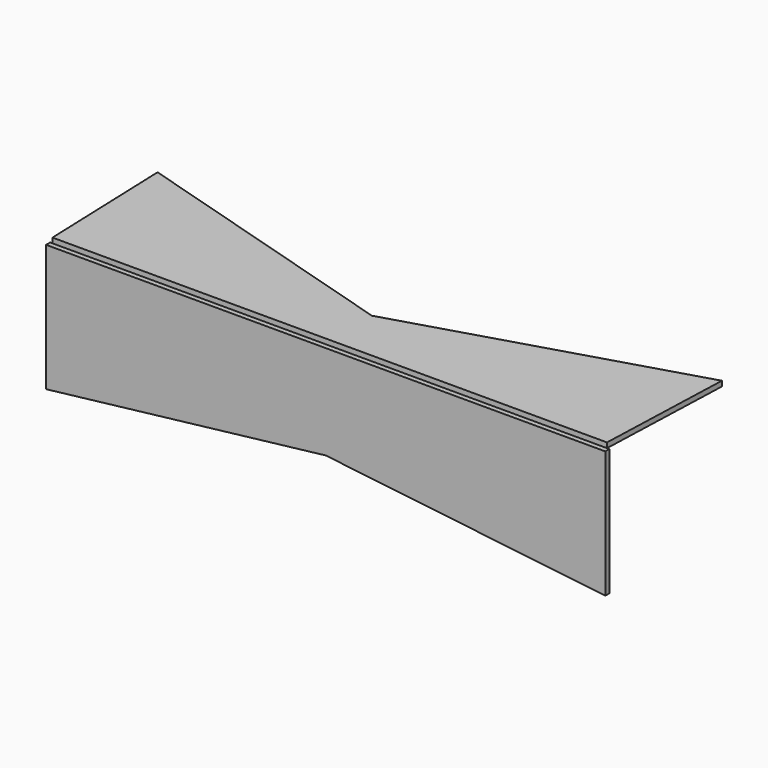
from build123d import *

# Parameters (mm, degrees)
F1_DEPTH = 0.508
F3_DEPTH = 0.508
F4_R     = 1.27
F5_DEPTH = 5.08


with BuildPart() as f1:
    # F0 (on Front) → F1 (new body)
    with BuildSketch(Plane.XZ):
        Polygon((0, -9.442327), (0, 0), (-27.94, 0), (-27.94, -12.7), align=None)
        Polygon((27.94, 0), (0, 0), (0, -9.442327), (27.94, -12.7), align=None)
        Polygon((0, -9.442327), (0, 0), (-27.94, 0), (-27.94, -12.7), align=None)
    extrude(amount=F1_DEPTH)


with BuildPart() as f3:
    # F2 (on Top) → F3 (new body)
    with BuildSketch(Plane.XY):
        Polygon((0, 5.257474), (0, 0), (27.706835, 0), (28.197579, 13.74031), align=None)
        Polygon((-27.706835, 0), (0, 0), (0, 5.257474), (-28.197579, 13.74031), align=None)
    extrude(amount=F3_DEPTH)

    # F4 (on face) → F5 (join)
    with BuildSketch(Plane(origin=(0, 0, 0), x_dir=(1, 0, 0), z_dir=(0, 0, -1))):
        with Locations((-14.321494, -3.81)):
            Circle(F4_R)
        with Locations((14.321494, -3.81)):
            Circle(F4_R)
    extrude(amount=F5_DEPTH)


solid = Compound([f1.part, f3.part])
